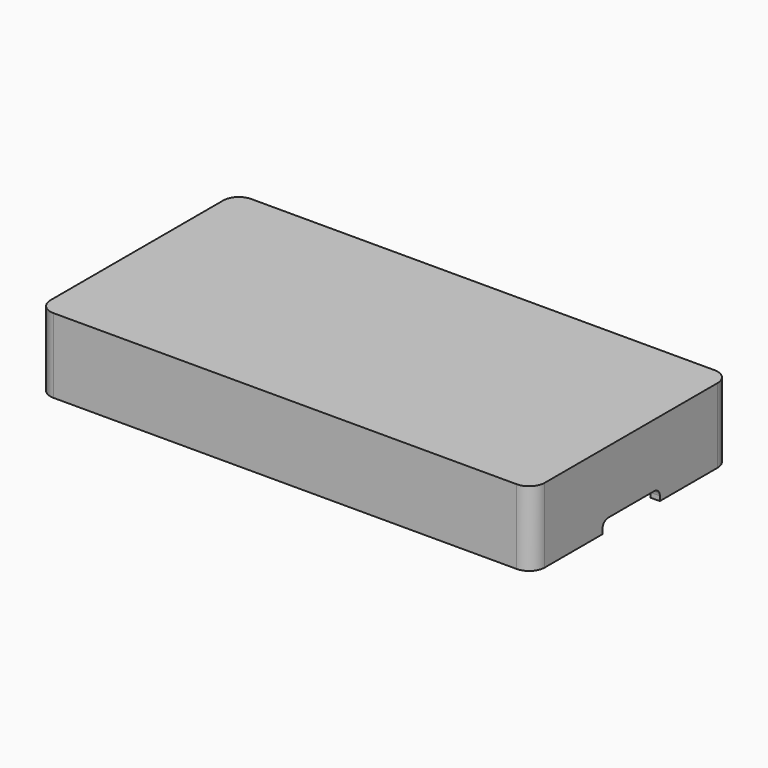
from build123d import *

# Parameters (mm, degrees)
F0_W     = 63.6
F0_H     = 31.8
F1_DEPTH = 9.6
F2_W     = 61.2
F2_H     = 29.4
F3_DEPTH = 8.4
F4_R     = 2
F6_DEPTH = 32


with BuildPart() as f1:
    # F0 (on Top) → F1 (new body)
    with BuildSketch(Plane.XY):
        Rectangle(F0_W, F0_H)
    extrude(amount=F1_DEPTH)

    # F2 (on Top) → F3 (cut)
    with BuildSketch(Plane.XY):
        Rectangle(F2_W, F2_H)
    extrude(amount=F3_DEPTH, mode=Mode.SUBTRACT)

    # F4
    f4_edges = [f1.edges().sort_by_distance(p)[0] for p in [
        (-31.8, -15.9, 4.8),
        (-31.8, 15.9, 4.8),
        (31.8, 15.9, 4.8),
        (31.8, -15.9, 4.8),
    ]]
    fillet(f4_edges, radius=F4_R)

    # F5 (on Right) → F6 (cut)
    with BuildSketch(Plane.YZ):
        with BuildLine():
            Line((3.71, 1.5), (-3.71, 1.5))
            ThreePointArc((-3.71, 1.5), (-4.346396, 1.236396), (-4.61, 0.6))
            Line((-4.61, 0.6), (-4.61, -0.6))
            ThreePointArc((-4.61, -0.6), (-4.346396, -1.236396), (-3.71, -1.5))
            Line((-3.71, -1.5), (3.71, -1.5))
            ThreePointArc((3.71, -1.5), (4.346396, -1.236396), (4.61, -0.6))
            Line((4.61, -0.6), (4.61, 0.6))
            ThreePointArc((4.61, 0.6), (4.346396, 1.236396), (3.71, 1.5))
        make_face()
    extrude(amount=F6_DEPTH, mode=Mode.SUBTRACT)


solid = f1.part
